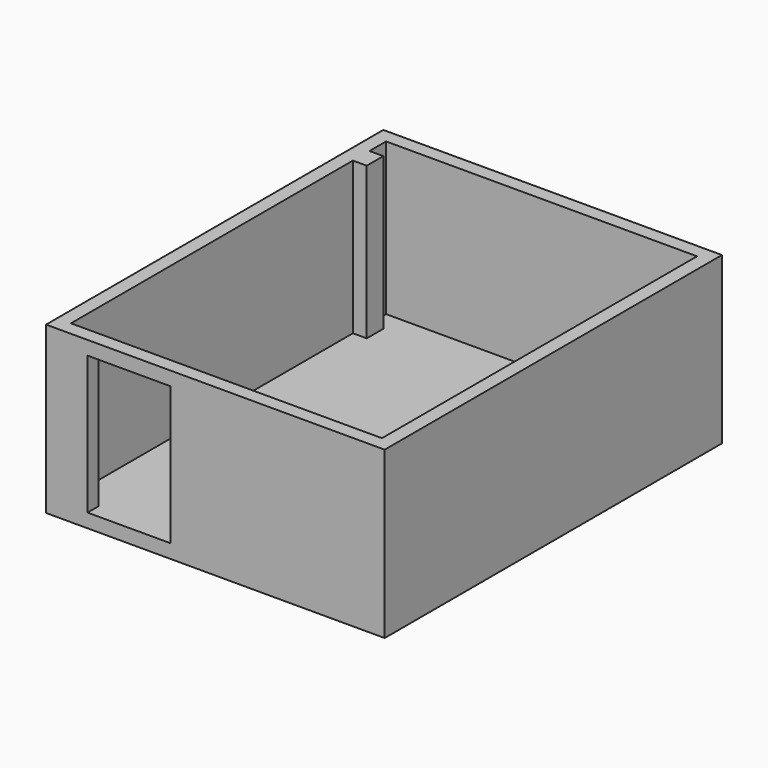
from build123d import *

# Parameters (mm, degrees)
F0_W     = 7467.6
F0_H     = 9296.4
F1_DEPTH = 3657.6
F2_W     = 6858
F2_H     = 8686.8
F3_DEPTH = 3352.8
F4_W     = 1828.8
F4_H     = 3048
F5_DEPTH = 304.8
F6_W     = 304.8
F6_H     = 457.2
F7_DEPTH = 3352.8


with BuildPart() as f1:
    # F0 (on Top) → F1 (new body)
    with BuildSketch(Plane.XY):
        Rectangle(F0_W, F0_H)
    extrude(amount=F1_DEPTH)

    # F2 (on face) → F3 (cut)
    with BuildSketch(Plane.XY.offset(3657.6)):
        Rectangle(F2_W, F2_H)
    extrude(amount=-F3_DEPTH, mode=Mode.SUBTRACT)

    # F4 (on face) → F5 (cut, through all)
    with BuildSketch(Plane.XZ.offset(4648.2)):
        with Locations((-1905, 1828.8)):
            Rectangle(F4_W, F4_H)
    extrude(amount=-F5_DEPTH, mode=Mode.SUBTRACT)

    # F6 (on face) → F7 (join, through all)
    with BuildSketch(Plane.XY.offset(304.8)):
        with Locations((-3276.6, 3657.6)):
            Rectangle(F6_W, F6_H)
    extrude(amount=F7_DEPTH)


solid = f1.part
